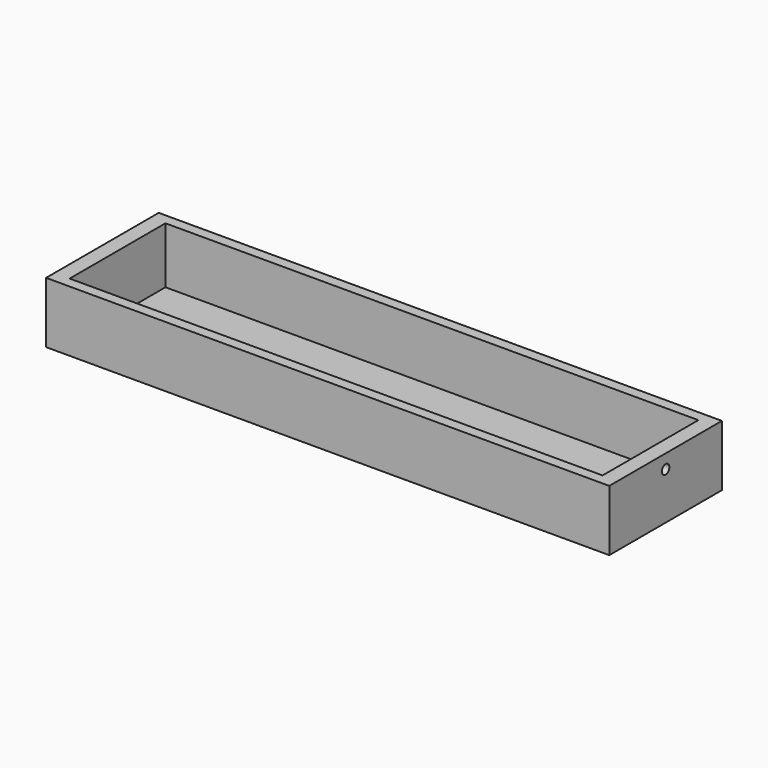
from build123d import *

# Parameters (mm, degrees)
F0_W     = 3048
F0_H     = 762
F0_W_2   = 2884.152173996
F0_H_2   = 648.0749249458
F1_DEPTH = 25.4
F2_DEPTH = 304.8
F3_R     = 25.4
F4_DEPTH = 81.923913002


with BuildPart() as f1:
    # F0 (on Top) → F1 (new body)
    with BuildSketch(Plane.XY):
        Rectangle(F0_W, F0_H)
        Rectangle(F0_W_2, F0_H_2, mode=Mode.SUBTRACT)
        Rectangle(F0_W_2, F0_H_2)
    extrude(amount=-F1_DEPTH)

    # F0 (on Top) → F2 (join)
    with BuildSketch(Plane.XY):
        Rectangle(F0_W, F0_H)
        Rectangle(F0_W_2, F0_H_2, mode=Mode.SUBTRACT)
    extrude(amount=F2_DEPTH)

    # F3 (on face) → F4 (cut, through all)
    with BuildSketch(Plane.YZ.offset(1524)):
        with Locations((0, 228.6)):
            Circle(F3_R)
    extrude(amount=-F4_DEPTH, mode=Mode.SUBTRACT)


solid = f1.part
